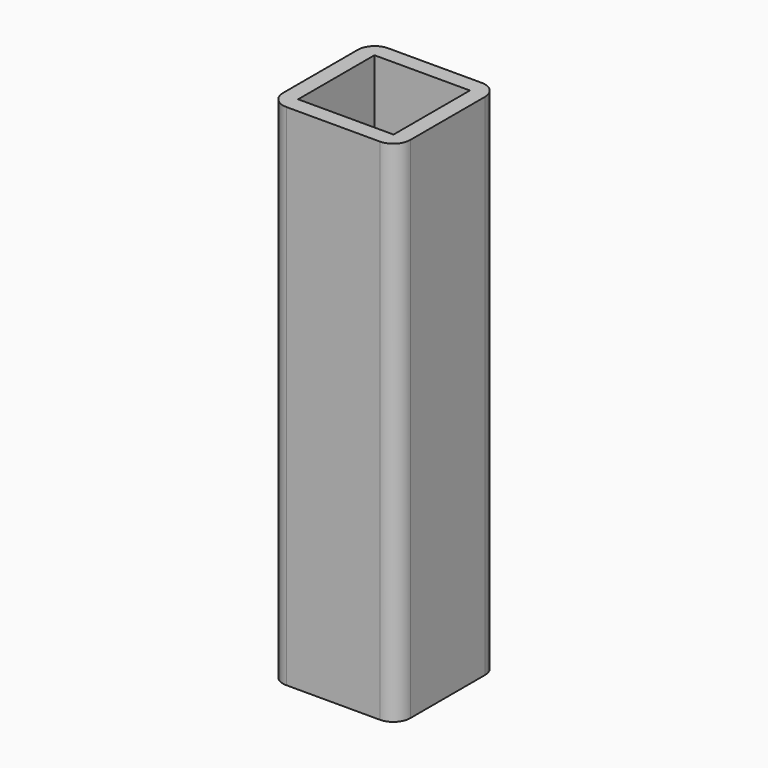
from build123d import *

# Parameters (mm, degrees)
F0_W     = 38.1
F0_H     = 38.1
F0_W_2   = 28.575
F0_H_2   = 28.575
F1_DEPTH = 152.4
F2_R     = 5.08


with BuildPart() as f1:
    # F0 (on Top) → F1 (new body)
    with BuildSketch(Plane.XY):
        Rectangle(F0_W, F0_H)
        Rectangle(F0_W_2, F0_H_2, mode=Mode.SUBTRACT)
    extrude(amount=-F1_DEPTH)

    # F2
    f2_edges = [f1.edges().sort_by_distance(p)[0] for p in [
        (19.05, -19.05, -76.2),
        (19.05, 19.05, -76.2),
        (-19.05, -19.05, -76.2),
        (-19.05, 19.05, -76.2),
    ]]
    fillet(f2_edges, radius=F2_R)


solid = f1.part
